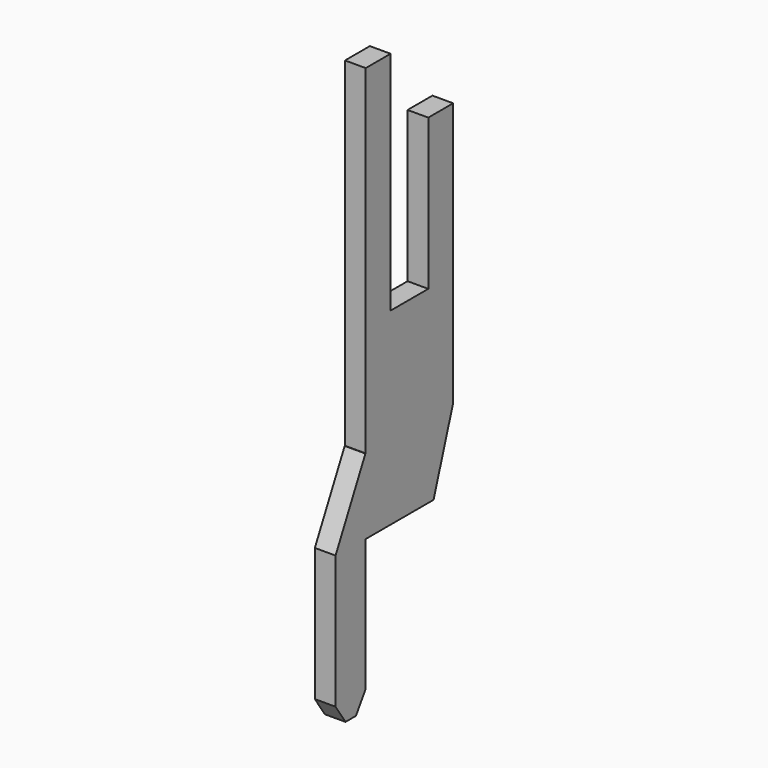
from build123d import *

# Parameters (mm, degrees)
BOX024_W                = 2.9
BOX024_H                = 0.55
BOX024_DEPTH            = 15
BOX025_W                = 1.25
BOX025_H                = 0.55
BOX025_DEPTH            = 6
BOX026_W                = 1.1
BOX026_H                = 0.6
BOX026_DEPTH            = 2
BOX028_W                = 1
BOX028_H                = 0.55
BOX028_DEPTH            = 6
BOX027_W                = 3
BOX027_H                = 0.55
BOX027_DEPTH            = 4
CHAMFER006_SIZE2        = 0.65
CHAMFER006_SIZE         = 2
CHAMFER007_ANGLE        = 33
CHAMFER007_SIZE         = 0.5
CHAMFER009_ANGLE        = 56
CHAMFER009_SIZE         = 0.33
CHAMFER008_ANGLE        = 26.565
CHAMFER008_SIZE         = 1.98
BODY020_PLACEMENT_ANGLE = 90


with BuildPart() as part:
    # Box024 → Box024 (join)
    with BuildSketch(Plane(origin=(-4.95, -0.275, 0), x_dir=(1, 0, 0), z_dir=(0, 0, 1))):
        with Locations((1.45, 0.275)):
            Rectangle(BOX024_W, BOX024_H)
    extrude(amount=BOX024_DEPTH)

    # Box025 → Box025 (cut)
    with BuildSketch(Plane(origin=(-4.125, -0.275, 9), x_dir=(1, 0, 0), z_dir=(0, 0, 1))):
        with Locations((0.625, 0.275)):
            Rectangle(BOX025_W, BOX025_H)
    extrude(amount=BOX025_DEPTH, mode=Mode.SUBTRACT)

    # Box026 → Box026 (cut)
    with BuildSketch(Plane(origin=(-3, -0.3, 13), x_dir=(1, 0, 0), z_dir=(0, 0, 1))):
        with Locations((0.55, 0.3)):
            Rectangle(BOX026_W, BOX026_H)
    extrude(amount=BOX026_DEPTH, mode=Mode.SUBTRACT)

    # Box028 → Box028 (join)
    with BuildSketch(Plane(origin=(-5.95, -0.275, 0), x_dir=(1, 0, 0), z_dir=(0, 0, 1))):
        with Locations((0.5, 0.275)):
            Rectangle(BOX028_W, BOX028_H)
    extrude(amount=BOX028_DEPTH)

    # Box027 → Box027 (cut)
    with BuildSketch(Plane(origin=(-4.95, 0.275, 4), x_dir=(1, 0, 0), z_dir=(0, 0, -1))):
        with Locations((1.5, 0.275)):
            Rectangle(BOX027_W, BOX027_H)
    extrude(amount=BOX027_DEPTH, mode=Mode.SUBTRACT)

    # Chamfer006
    chamfer006_edges = [part.edges().sort_by_distance(p)[0] for p in [
        (-2.05, 0, 4),
    ]]
    chamfer006_side = part.faces().sort_by_distance((-2.05, 0, 8.5))[0]
    chamfer(chamfer006_edges, length=CHAMFER006_SIZE, length2=CHAMFER006_SIZE2, reference=chamfer006_side)

    # Chamfer007
    chamfer007_edges = [part.edges().sort_by_distance(p)[0] for p in [
        (-4.95, 0, 0),
    ]]
    chamfer007_side = part.faces().sort_by_distance((-4.95, 0, 2))[0]
    chamfer(chamfer007_edges, length=CHAMFER007_SIZE, angle=CHAMFER007_ANGLE, reference=chamfer007_side)

    # Chamfer009
    chamfer009_edges = [part.edges().sort_by_distance(p)[0] for p in [
        (-5.95, 0, 0),
    ]]
    chamfer009_side = part.faces().sort_by_distance((-5.612352, 0, 0))[0]
    chamfer(chamfer009_edges, length=CHAMFER009_SIZE, angle=CHAMFER009_ANGLE, reference=chamfer009_side)

    # Chamfer008
    chamfer008_edges = [part.edges().sort_by_distance(p)[0] for p in [
        (-5.95, 0, 6),
    ]]
    chamfer008_side = part.faces().sort_by_distance((-5.95, 0, 3.244623))[0]
    chamfer(chamfer008_edges, length=CHAMFER008_SIZE, angle=CHAMFER008_ANGLE, reference=chamfer008_side)


with BuildPart() as part_1:
    # Body020 placement: moved
    add(part.part.moved(Location((0, 0, -4))).rotate(Axis((0, 0, -4), (0, 0, 1)), BODY020_PLACEMENT_ANGLE))


solid = part_1.part
